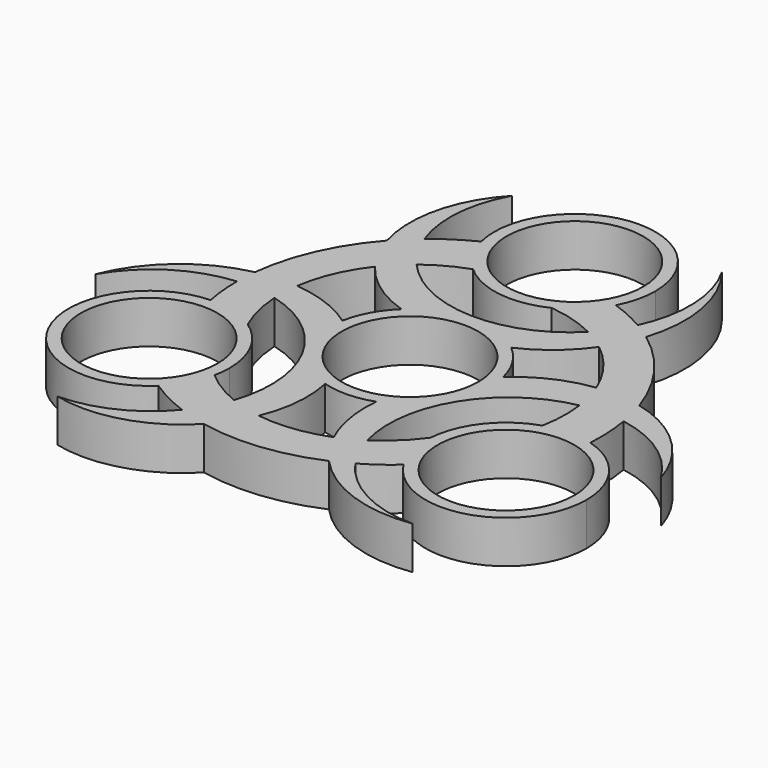
from build123d import *

# Parameters (mm, degrees)
F0_R     = 11.2
F1_DEPTH = 7


with BuildPart() as f1:
    # F0 (on Top) → F1 (new body)
    with BuildSketch(Plane.XY):
        with BuildLine():
            ThreePointArc((-9.0664544139, 9.593716921), (-0.3402026464, 13.1956152626), (8.5600576622, 10.0481546973))
            ThreePointArc((8.5600576622, 10.0481546973), (13.3623688649, 13.0682272047), (17.2184018315, 17.229241576))
            ThreePointArc((17.2184018315, 17.229241576), (15.4226648447, 18.5097823264), (13.5080117048, 19.6045696542))
            ThreePointArc((13.5080117048, 19.6045696542), (-1.0807969762, 13.7556794158), (-15.2941767487, 20.4655744367))
            ThreePointArc((-15.2941767487, 20.4655744367), (-17.3044688505, 18.6863680779), (-19.0837069005, 16.676104025))
            ThreePointArc((-19.0837069005, 16.676104025), (-14.6210833504, 12.36265011), (-9.0664544139, 9.593716921))
        make_face()
        with BuildLine():
            ThreePointArc((12.8416297773, 3.0549213841), (13.1101013165, 1.5379348068), (13.2, 0))
            ThreePointArc((13.2, 0), (10.7844669514, -7.6115223559), (4.4219283979, -12.4373047419))
            ThreePointArc((4.4219283979, -12.4373047419), (4.6362323092, -18.1062644941), (6.311759977, -23.5261941867))
            ThreePointArc((6.311759977, -23.5261941867), (8.3186092908, -22.6113107128), (10.2240494984, -21.5005661181))
            ThreePointArc((10.2240494984, -21.5005661181), (12.4531663085, -5.9418420702), (25.3707957396, 3.012358376))
            ThreePointArc((25.3707957396, 3.012358376), (24.8351038852, 5.6429255846), (23.983783172, 8.1889229618))
            ThreePointArc((23.983783172, 8.1889229618), (18.0169107285, 6.4809045573), (12.8416297773, 3.0549213841))
        make_face()
        with BuildLine():
            ThreePointArc((-4.9000762715, -24.8650269867), (-3.3958273782, -18.8435546673), (-3.7751753634, -12.6486383052))
            ThreePointArc((-3.7751753634, -12.6486383052), (-11.2576367128, -6.8924317656), (-12.9819860601, 2.3891500447))
            ThreePointArc((-12.9819860601, 2.3891500447), (-17.9986011741, 5.0380372894), (-23.5301618085, 6.2969526107))
            ThreePointArc((-23.5301618085, 6.2969526107), (-23.7412741356, 4.1015283864), (-23.7320612032, 1.8959964639))
            ThreePointArc((-23.7320612032, 1.8959964639), (-11.3723693323, -7.8138373456), (-10.0766189909, -23.4779328127))
            ThreePointArc((-10.0766189909, -23.4779328127), (-7.5306350347, -24.3292936625), (-4.9000762715, -24.8650269867))
        make_face()
        with BuildLine():
            ThreePointArc((4.4219283979, -12.4373047419), (10.7844669514, -7.6115223559), (13.2, 0))
            ThreePointArc((13.2, 0), (13.1101013165, 1.5379348068), (12.8416297773, 3.0549213841))
            ThreePointArc((12.8416297773, 3.0549213841), (11.2576367128, 6.8924317656), (8.5600576622, 10.0481546973))
            ThreePointArc((8.5600576622, 10.0481546973), (-0.3402026464, 13.1956152626), (-9.0664544139, 9.593716921))
            ThreePointArc((-9.0664544139, 9.593716921), (-11.5978393592, 6.3031834971), (-12.9819860601, 2.3891500447))
            ThreePointArc((-12.9819860601, 2.3891500447), (-11.2576367128, -6.8924317656), (-3.7751753634, -12.6486383052))
            ThreePointArc((-3.7751753634, -12.6486383052), (0.3402026464, -13.1956152626), (4.4219283979, -12.4373047419))
        make_face()
        Circle(F0_R, mode=Mode.SUBTRACT)
        with BuildLine():
            ThreePointArc((32.9202071932, -4.2068897734), (29.0359709967, -3.6869389282), (25.1702590813, -4.330298158))
            ThreePointArc((25.1702590813, -4.330298158), (18.8640994661, -8.7333779701), (16.0826587078, -15.9040368123))
            ThreePointArc((16.0826587078, -15.9040368123), (16.4340128371, -20.0616545549), (18.0654938023, -23.9019025779))
            ThreePointArc((18.0654938023, -23.9019025779), (32.8968568839, -29.5703850374), (42.4461381055, -16.885265708))
            ThreePointArc((42.4461381055, -16.885265708), (39.79928247, -8.9561330933), (32.9202071932, -4.2068897734))
        make_face()
        with Locations((29.2461381055, -16.885265708)):
            Circle(F0_R, mode=Mode.SUBTRACT)
        with BuildLine():
            ThreePointArc((-20.1033770112, -26.4062908404), (-17.7109682723, -23.3024190426), (-16.3352777515, -19.6329347052))
            ThreePointArc((-16.3352777515, -19.6329347052), (-16.1186220291, -18.2666858697), (-16.0461381055, -16.885265708))
            ThreePointArc((-16.0461381055, -16.885265708), (-17.5770353805, -10.715011127), (-21.8146292561, -5.9759725952))
            ThreePointArc((-21.8146292561, -5.9759725952), (-25.5909089051, -4.2014453256), (-29.7324017324, -3.6942252757))
            ThreePointArc((-29.7324017324, -3.6942252757), (-41.3990479486, -22.0376226779), (-20.1033770112, -26.4062908404))
        make_face()
        with Locations((-29.2461381055, -16.885265708)):
            Circle(F0_R, mode=Mode.SUBTRACT)
        with BuildLine():
            ThreePointArc((-8.8349813298, 23.9632328632), (-1.8687225501, 20.7034783422), (5.7319705483, 21.8800094075))
            ThreePointArc((5.7319705483, 21.8800094075), (9.156896068, 24.2630998805), (11.6669079301, 27.5961278537))
            ThreePointArc((11.6669079301, 27.5961278537), (12.8109949785, 30.5895869554), (13.2, 33.7705314159))
            ThreePointArc((13.2, 33.7705314159), (-1.590258092, 46.8743888328), (-12.8168301819, 30.6131806138))
            ThreePointArc((-12.8168301819, 30.6131806138), (-11.3250027243, 26.9893579708), (-8.8349813298, 23.9632328632))
        make_face()
        with Locations((0, 33.7705314159)):
            Circle(F0_R, mode=Mode.SUBTRACT)
        with BuildLine():
            ThreePointArc((17.2184018315, 17.229241576), (21.1894312467, 13.1493694022), (23.983783172, 8.1889229618))
            ThreePointArc((23.983783172, 8.1889229618), (27.6947359518, 8.3170744376), (31.3672708376, 7.769278082))
            ThreePointArc((31.3672708376, 7.769278082), (26.9615371909, 16.3249034182), (20.1761751997, 23.1489840527))
            ThreePointArc((20.1761751997, 23.1489840527), (18.9241495267, 20.0757627051), (17.2184018315, 17.229241576))
        make_face()
        with BuildLine():
            ThreePointArc((5.7319705483, 21.8800094075), (9.725374259, 21.102423687), (13.5080117048, 19.6045696542))
            ThreePointArc((13.5080117048, 19.6045696542), (15.6326468091, 22.1594171164), (17.2967238329, 25.0355547244))
            ThreePointArc((17.2967238329, 25.0355547244), (14.5448752652, 26.4544870934), (11.6669079301, 27.5961278537))
            ThreePointArc((11.6669079301, 27.5961278537), (9.156896068, 24.2630998805), (5.7319705483, 21.8800094075))
        make_face()
        with BuildLine():
            ThreePointArc((13.5080117048, 19.6045696542), (15.4226648447, 18.5097823264), (17.2184018315, 17.229241576))
            ThreePointArc((17.2184018315, 17.229241576), (18.9241495267, 20.0757627051), (20.1761751997, 23.1489840527))
            ThreePointArc((20.1761751997, 23.1489840527), (18.7622662534, 24.1316731809), (17.2967238329, 25.0355547244))
            ThreePointArc((17.2967238329, 25.0355547244), (15.6326468091, 22.1594171164), (13.5080117048, 19.6045696542))
        make_face()
        with BuildLine():
            ThreePointArc((31.3672708376, 7.769278082), (27.6947359518, 8.3170744376), (23.983783172, 8.1889229618))
            ThreePointArc((23.983783172, 8.1889229618), (24.8351038852, 5.6429255846), (25.3707957396, 3.012358376))
            ThreePointArc((25.3707957396, 3.012358376), (28.9504210038, 3.3834783518), (32.5377278794, 3.0959432247))
            ThreePointArc((32.5377278794, 3.0959432247), (32.0420645208, 5.4550426378), (31.3672708376, 7.769278082))
        make_face()
        with BuildLine():
            ThreePointArc((32.5377278794, 3.0959432247), (28.9504210038, 3.3834783518), (25.3707957396, 3.012358376))
            ThreePointArc((25.3707957396, 3.012358376), (25.5783549003, -0.6673770248), (25.1702590813, -4.330298158))
            ThreePointArc((25.1702590813, -4.330298158), (29.0359709967, -3.6869389282), (32.9202071932, -4.2068897734))
            ThreePointArc((32.9202071932, -4.2068897734), (32.9418244088, -0.544325087), (32.5377278794, 3.0959432247))
        make_face()
        with BuildLine():
            ThreePointArc((46.0488609523, -6.1762533223), (40.5642006941, 2.7506157789), (31.3672708376, 7.769278082))
            ThreePointArc((31.3672708376, 7.769278082), (32.0420645208, 5.4550426378), (32.5377278794, 3.0959432247))
            ThreePointArc((32.5377278794, 3.0959432247), (40.3052666152, -0.0655431828), (46.0488609523, -6.1762533223))
        make_face()
        with BuildLine():
            ThreePointArc((17.2967238329, 25.0355547244), (18.7622662534, 24.1316731809), (20.1761751997, 23.1489840527))
            ThreePointArc((20.1761751997, 23.1489840527), (20.8643696401, 33.6582779676), (16.5260042995, 43.255019933))
            ThreePointArc((16.5260042995, 43.255019933), (19.1512826404, 34.2400403293), (17.2967238329, 25.0355547244))
        make_face()
        with BuildLine():
            ThreePointArc((-22.4120276069, 23.2802143517), (-21.0501657241, 19.8258076666), (-19.0837069005, 16.676104025))
            ThreePointArc((-19.0837069005, 16.676104025), (-17.3044688505, 18.6863680779), (-15.2941767487, 20.4655744367))
            ThreePointArc((-15.2941767487, 20.4655744367), (-17.4053887077, 23.3800608637), (-18.9500294209, 26.6305273126))
            ThreePointArc((-18.9500294209, 26.6305273126), (-20.7452377635, 25.0217205458), (-22.4120276069, 23.2802143517))
        make_face()
        with BuildLine():
            ThreePointArc((-18.9500294209, 26.6305273126), (-17.4053887077, 23.3800608637), (-15.2941767487, 20.4655744367))
            ThreePointArc((-15.2941767487, 20.4655744367), (-12.2112119927, 22.4851936431), (-8.8349813298, 23.9632328632))
            ThreePointArc((-8.8349813298, 23.9632328632), (-11.3250027243, 26.9893579708), (-12.8168301819, 30.6131806138))
            ThreePointArc((-12.8168301819, 30.6131806138), (-15.9995128512, 28.8006193285), (-18.9500294209, 26.6305273126))
        make_face()
        with BuildLine():
            ThreePointArc((-17.6756381989, 42.9676100612), (-22.6642034877, 33.7543203958), (-22.4120276069, 23.2802143517))
            ThreePointArc((-22.4120276069, 23.2802143517), (-20.7452377635, 25.0217205458), (-18.9500294209, 26.6305273126))
            ThreePointArc((-18.9500294209, 26.6305273126), (-20.0958712462, 34.9381563865), (-17.6756381989, 42.9676100612))
        make_face()
        with BuildLine():
            ThreePointArc((-23.5301618085, 6.2969526107), (-21.9824035694, 11.7759010503), (-19.0837069005, 16.676104025))
            ThreePointArc((-19.0837069005, 16.676104025), (-21.0501657241, 19.8258076666), (-22.4120276069, 23.2802143517))
            ThreePointArc((-22.4120276069, 23.2802143517), (-27.6185496699, 15.1869244233), (-30.1356958613, 5.8985882478))
            ThreePointArc((-30.1356958613, 5.8985882478), (-26.8481952663, 6.3509128826), (-23.5301618085, 6.2969526107))
        make_face()
        with BuildLine():
            ThreePointArc((-23.7320612032, 1.8959964639), (-23.7412741356, 4.1015283864), (-23.5301618085, 6.2969526107))
            ThreePointArc((-23.5301618085, 6.2969526107), (-26.8481952663, 6.3509128826), (-30.1356958613, 5.8985882478))
            ThreePointArc((-30.1356958613, 5.8985882478), (-30.2797751372, 4.1827626176), (-30.3297883056, 2.4616248793))
            ThreePointArc((-30.3297883056, 2.4616248793), (-27.0069415604, 2.4585607069), (-23.7320612032, 1.8959964639))
        make_face()
        with BuildLine():
            ThreePointArc((-30.3297883056, 2.4616248793), (-30.2797751372, 4.1827626176), (-30.1356958613, 5.8985882478))
            ThreePointArc((-30.1356958613, 5.8985882478), (-39.5811085877, 1.2399351585), (-45.7229482529, -7.3155704201))
            ThreePointArc((-45.7229482529, -7.3155704201), (-39.228386072, -0.534522883), (-30.3297883056, 2.4616248793))
        make_face()
        with BuildLine():
            ThreePointArc((-21.8146292561, -5.9759725952), (-23.1379221239, -2.1287906738), (-23.7320612032, 1.8959964639))
            ThreePointArc((-23.7320612032, 1.8959964639), (-27.0069415604, 2.4585607069), (-30.3297883056, 2.4616248793))
            ThreePointArc((-30.3297883056, 2.4616248793), (-30.1826954996, -0.6310120722), (-29.7324017324, -3.6942252757))
            ThreePointArc((-29.7324017324, -3.6942252757), (-25.5909089051, -4.2014453256), (-21.8146292561, -5.9759725952))
        make_face()
        with BuildLine():
            ThreePointArc((16.0826587078, -15.9040368123), (13.4125478648, -18.9736330131), (10.2240494984, -21.5005661181))
            ThreePointArc((10.2240494984, -21.5005661181), (11.3742947513, -24.6179778232), (13.0330644727, -27.4971796037))
            ThreePointArc((13.0330644727, -27.4971796037), (15.6378202344, -25.8234750212), (18.0654938023, -23.9019025779))
            ThreePointArc((18.0654938023, -23.9019025779), (16.4340128371, -20.0616545549), (16.0826587078, -15.9040368123))
        make_face()
        with BuildLine():
            ThreePointArc((10.2240494984, -21.5005661181), (8.3186092908, -22.6113107128), (6.311759977, -23.5261941867))
            ThreePointArc((6.311759977, -23.5261941867), (7.9240457396, -26.4266755877), (9.9595206616, -29.0475723005))
            ThreePointArc((9.9595206616, -29.0475723005), (11.5175088838, -28.3144357985), (13.0330644727, -27.4971796037))
            ThreePointArc((13.0330644727, -27.4971796037), (11.3742947513, -24.6179778232), (10.2240494984, -21.5005661181))
        make_face()
        with BuildLine():
            ThreePointArc((13.0330644727, -27.4971796037), (11.5175088838, -28.3144357985), (9.9595206616, -29.0475723005))
            ThreePointArc((9.9595206616, -29.0475723005), (18.7167389476, -34.8982131261), (29.1969439534, -35.9394495129))
            ThreePointArc((29.1969439534, -35.9394495129), (20.0771034316, -33.7055174463), (13.0330644727, -27.4971796037))
        make_face()
        with BuildLine():
            ThreePointArc((9.9595206616, -29.0475723005), (7.9240457396, -26.4266755877), (6.311759977, -23.5261941867))
            ThreePointArc((6.311759977, -23.5261941867), (0.7929723227, -24.9252704525), (-4.9000762715, -24.8650269867))
            ThreePointArc((-4.9000762715, -24.8650269867), (-6.6445702277, -28.1428821042), (-8.9552432307, -31.0494924337))
            ThreePointArc((-8.9552432307, -31.0494924337), (0.657012479, -31.5118278414), (9.9595206616, -29.0475723005))
        make_face()
        with BuildLine():
            ThreePointArc((-8.9552432307, -31.0494924337), (-6.6445702277, -28.1428821042), (-4.9000762715, -24.8650269867))
            ThreePointArc((-4.9000762715, -24.8650269867), (-7.5306350347, -24.3292936625), (-10.0766189909, -23.4779328127))
            ThreePointArc((-10.0766189909, -23.4779328127), (-11.5450322961, -26.7635392155), (-13.5876984584, -29.7264705373))
            ThreePointArc((-13.5876984584, -29.7264705373), (-11.2968267573, -30.4767631836), (-8.9552432307, -31.0494924337))
        make_face()
        with BuildLine():
            ThreePointArc((-13.5876984584, -29.7264705373), (-11.5450322961, -26.7635392155), (-10.0766189909, -23.4779328127))
            ThreePointArc((-10.0766189909, -23.4779328127), (-13.3671429076, -21.8178166183), (-16.3352777515, -19.6329347052))
            ThreePointArc((-16.3352777515, -19.6329347052), (-17.7109682723, -23.3024190426), (-20.1033770112, -26.4062908404))
            ThreePointArc((-20.1033770112, -26.4062908404), (-16.9423115576, -28.2562942415), (-13.5876984584, -29.7264705373))
        make_face()
        with BuildLine():
            ThreePointArc((-28.3732227534, -36.7913567389), (-17.8999972064, -36.5049361748), (-8.9552432307, -31.0494924337))
            ThreePointArc((-8.9552432307, -31.0494924337), (-11.2968267573, -30.4767631836), (-13.5876984584, -29.7264705373))
            ThreePointArc((-13.5876984584, -29.7264705373), (-20.209395369, -34.8726132037), (-28.3732227534, -36.7913567389))
        make_face()
    extrude(amount=F1_DEPTH)


solid = f1.part
